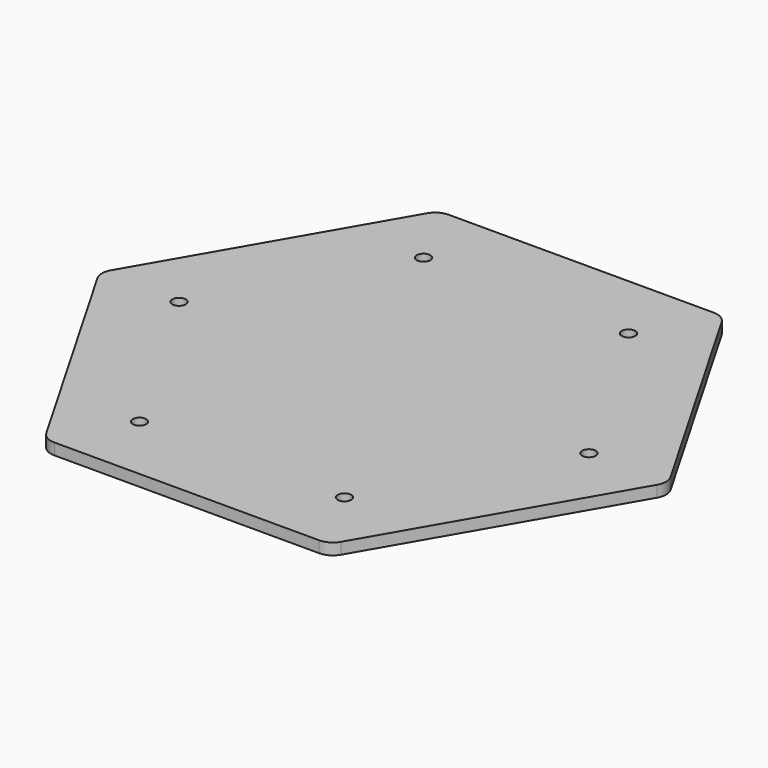
from build123d import *

# Parameters (mm, degrees)
F1_DEPTH = 2
F3_D     = 2.4
F4_R     = 3


with BuildPart() as f1:
    # F0 (on Top) → F1 (new body)
    with BuildSketch(Plane.XY):
        Polygon((25, 43.3012701892), (-25, 43.3012701892), (-50, 0), (-25, -43.3012701892), (25, -43.3012701892), (50, 0), align=None)
    extrude(amount=F1_DEPTH)

    # F3 (through all)
    with Locations(Plane.XY.offset(2)):
        with Locations((-18, 31.1769145362), (18, 31.1769145362), (36, 0), (18, -31.1769145362), (-18, -31.1769145362), (-36, 0)):
            Hole(F3_D / 2)

    # F4
    f4_edges = [f1.edges().sort_by_distance(p)[0] for p in [
        (-25, -43.30127, 1),
        (25, -43.30127, 1),
        (50, 0, 1),
        (25, 43.30127, 1),
        (-25, 43.30127, 1),
        (-50, 0, 1),
    ]]
    fillet(f4_edges, radius=F4_R)


solid = f1.part
